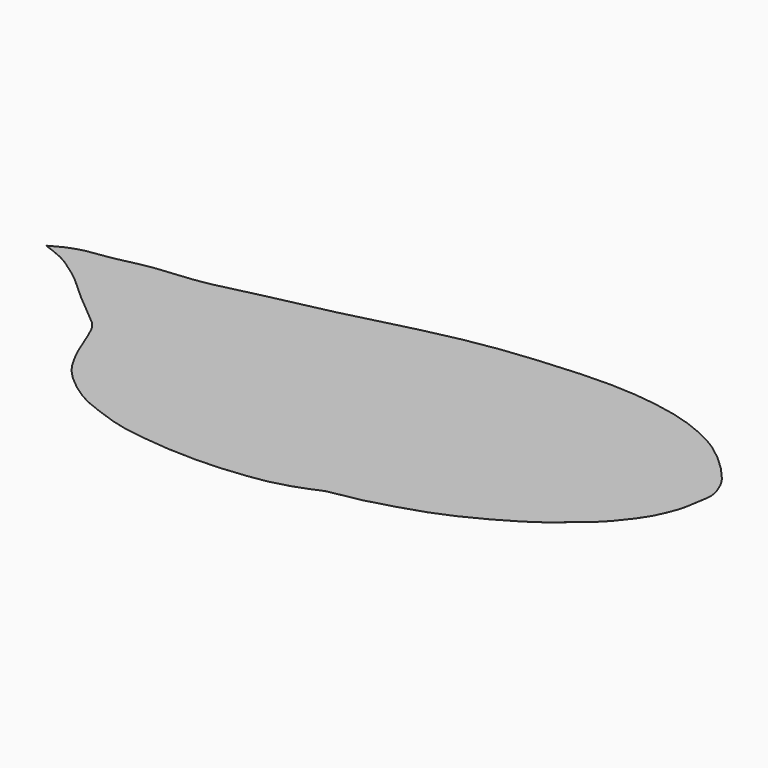
from build123d import *

# Parameters (mm, degrees)
PAD_DEPTH = 0.005


with BuildPart() as part:
    # Sketch → Pad (new body, symmetric)
    with BuildSketch(Plane.XY):
        with BuildLine():
            add(Edge.make_bspline(
                [(0, 0), (10.1091, 5.97242), (22.5671, 10.2217), (42.4613, 11.96), (56.2714, 15.9195), (75.0068, 19.1065), (97.9322, 20.4614), (114.736, 23.8415), (145.929, 31.7606), (186.78, 39.6797), (248.249, 56.2354), (289.486, 64.5408), (322.186, 68.2284), (355.504, 70.8359), (380.516, 71.5119), (399.981, 70.5396), (418.813, 68.3184), (442.667, 63.3932), (461.402, 55.957), (473.305, 49.8345), (482.866, 43.8469), (497.642, 31.6786), (510.776, 17.3856), (515.701, 9.17683), (519.07, 0), (519.757, -6.37158), (518.888, -11.49), (517.346, -21.3859), (515.608, -31.0433), (510.779, -41.9561), (508.358, -47.6018), (500.729, -58.9975), (486.919, -75.6082), (474.461, -84.493), (467.198, -91.4098), (455.223, -100.295), (436.391, -111.401), (420.36, -119.706), (407.667, -125.54), (391.442, -131.624), (374.155, -136.646), (359.959, -140.895), (344.314, -143.792), (339.485, -144.372), (332.532, -145.724), (326.158, -148.718), (318.007, -152.286), (300.624, -157.404), (289.711, -159.239), (266.243, -162.04), (247.798, -162.716), (230.57, -162.334), (215.311, -161.465), (198.99, -159.243), (186.146, -157.505), (173.205, -153.932), (157.463, -148.041), (146.605, -143.968), (135.885, -137.401), (126.614, -130.448), (118.888, -123.591), (111.838, -115.479), (107.858, -108.375), (103.319, -100.359), (97.9112, -87.7081), (90.2819, -67.7173), (85.2601, -61.6332), (76.5684, -54.3901), (58.5794, -39.7433), (47.7631, -29.603), (37.7194, -20.4285), (29.5106, -15.2135), (18.5012, -6.61841), (3.6288, -1.21027), (0, 0)],
                knots=[0, 0, 0, 0, 0.013889, 0.027778, 0.041667, 0.055556, 0.069444, 0.083333, 0.097222, 0.111111, 0.125, 0.138889, 0.152778, 0.166667, 0.180556, 0.194444, 0.208333, 0.222222, 0.236111, 0.25, 0.263889, 0.277778, 0.291667, 0.305556, 0.319444, 0.333333, 0.347222, 0.361111, 0.375, 0.388889, 0.402778, 0.416667, 0.430556, 0.444444, 0.458333, 0.472222, 0.486111, 0.5, 0.513889, 0.527778, 0.541667, 0.555556, 0.569444, 0.583333, 0.597222, 0.611111, 0.625, 0.638889, 0.652778, 0.666667, 0.680556, 0.694444, 0.708333, 0.722222, 0.736111, 0.75, 0.763889, 0.777778, 0.791667, 0.805556, 0.819444, 0.833333, 0.847222, 0.861111, 0.875, 0.888889, 0.902778, 0.916667, 0.930556, 0.944444, 0.958333, 0.972222, 0.986111, 1, 1, 1, 1], degree=3))
        make_face()
    extrude(amount=PAD_DEPTH, both=True)


solid = part.part
